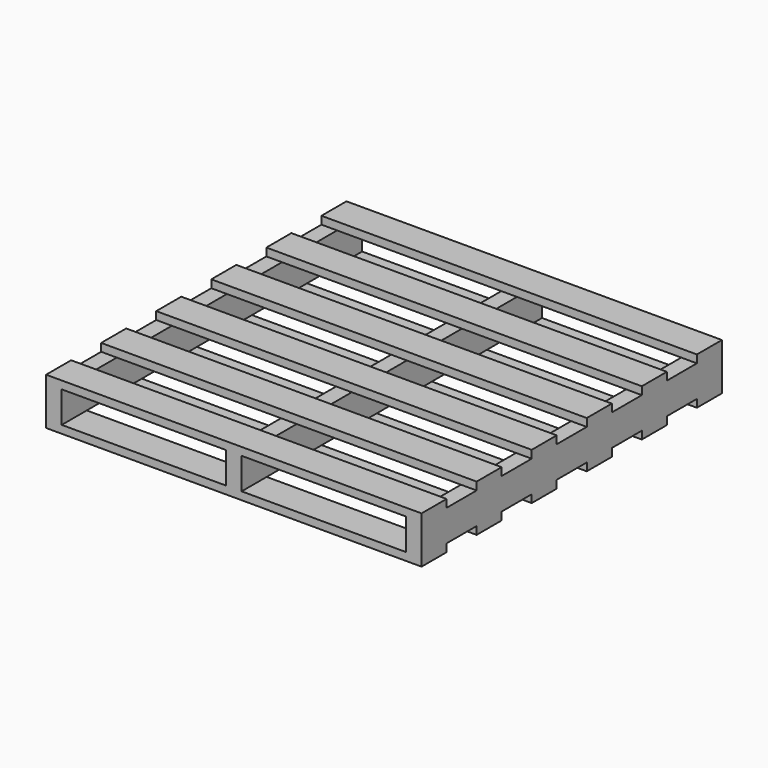
from build123d import *

# Parameters (mm, degrees)
F1_DEPTH = 25.4
F2_W     = 50.8
F2_H     = 1219.2
F2_W_2   = 25.4
F3_DEPTH = 101.6
F4_W     = 1219.2
F4_H     = 101.6
F5_DEPTH = 25.4
F7_DEPTH = 25.4


with BuildPart() as f1:
    # F0 (on Top) → F1 (new body)
    with BuildSketch(Plane.XY):
        Polygon((0, 101.6), (0, 0), (1219.2, 0), (1219.2, 101.6), (609.6, 101.6), align=None)
    extrude(amount=F1_DEPTH)

    # F2 (on face) → F3 (join)
    with BuildSketch(Plane.XY.offset(25.4)):
        with Locations((25.4, 609.6)):
            Rectangle(F2_W, F2_H)
        with Locations((622.3, 609.6)):
            Rectangle(F2_W_2, F2_H)
        with Locations((596.9, 609.6)):
            Rectangle(F2_W_2, F2_H)
        with Locations((1193.8, 609.6)):
            Rectangle(F2_W, F2_H)
    extrude(amount=F3_DEPTH)

    # F4 (on face) → F5 (join)
    with BuildSketch(Plane.XY.offset(127)):
        with Locations((609.6, 1168.4)):
            Rectangle(F4_W, F4_H)
        with Locations((609.6, 944.88)):
            Rectangle(F4_W, F4_H)
        with Locations((609.6, 721.36)):
            Rectangle(F4_W, F4_H)
        with Locations((609.6, 497.84)):
            Rectangle(F4_W, F4_H)
        with Locations((609.6, 274.32)):
            Rectangle(F4_W, F4_H)
        with Locations((609.6, 50.8)):
            Rectangle(F4_W, F4_H)
    extrude(amount=F5_DEPTH)

    # F6 (on face) → F7 (join)
    with BuildSketch(Plane(origin=(0, 0, 25.4), x_dir=(1, 0, 0), z_dir=(0, 0, -1))):
        Polygon((0, -325.12), (609.6, -325.12), (1219.2, -325.12), (1219.2, -223.52), (609.6, -223.52), (0, -223.52), align=None)
        Polygon((0, -447.04), (0, -548.64), (609.6, -548.64), (1219.2, -548.64), (1219.2, -447.04), (609.6, -447.04), align=None)
        Polygon((0, -670.56), (0, -772.16), (609.6, -772.16), (1219.2, -772.16), (1219.2, -670.56), (609.6, -670.56), align=None)
        Polygon((0, -894.08), (0, -995.68), (609.6, -995.68), (1219.2, -995.68), (1219.2, -894.08), (609.6, -894.08), align=None)
        Polygon((0, -1219.2), (1219.2, -1219.2), (1219.2, -1117.6), (609.6, -1117.6), (0, -1117.6), align=None)
    extrude(amount=F7_DEPTH)


solid = f1.part
